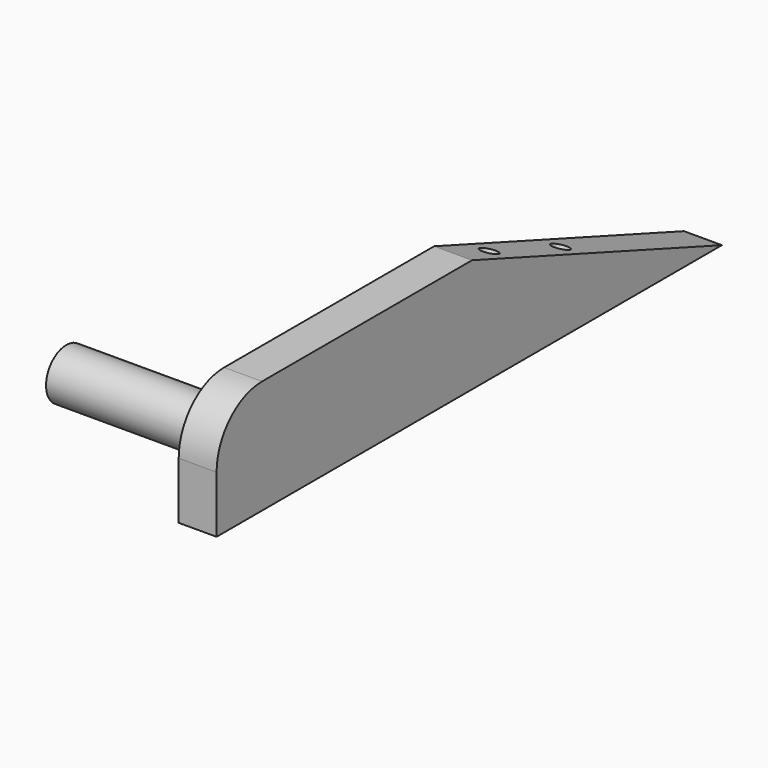
from build123d import *

# Parameters (mm, degrees)
F1_DEPTH = 6
F2_R     = 9
F3_R     = 4
F4_DEPTH = 25
F7_R     = 1.35
F8_DEPTH = 25


with BuildPart() as f1:
    # F0 (on Right) → F1 (new body)
    with BuildSketch(Plane.YZ):
        Polygon((-100, 0), (0, 0), (-49.4545935502, 18), (-100, 18), align=None)
    extrude(amount=F1_DEPTH)

    # F2
    f2_edges = [f1.edges().sort_by_distance(p)[0] for p in [
        (3, -100, 18),
    ]]
    fillet(f2_edges, radius=F2_R)

    # F3 (on face) → F4 (join)
    with BuildSketch(Plane.YZ.offset(6)):
        with Locations((-91, 9)):
            Circle(F3_R)
    extrude(amount=F4_DEPTH)


with BuildPart() as f5_1:
    # F5: instance of F1
    add(f1.part.mirror(Plane.YZ))

    # F7 (on face) → F8 (cut)
    with BuildSketch(Plane(origin=(0, 0, 0), x_dir=(1, 0, 0), z_dir=(0, 0.3420201433, 0.9396926208))):
        with Locations((-3, -45)):
            Circle(F7_R)
        with Locations((-3, -30)):
            Circle(F7_R)
    extrude(amount=-F8_DEPTH, mode=Mode.SUBTRACT)


solid = f5_1.part
